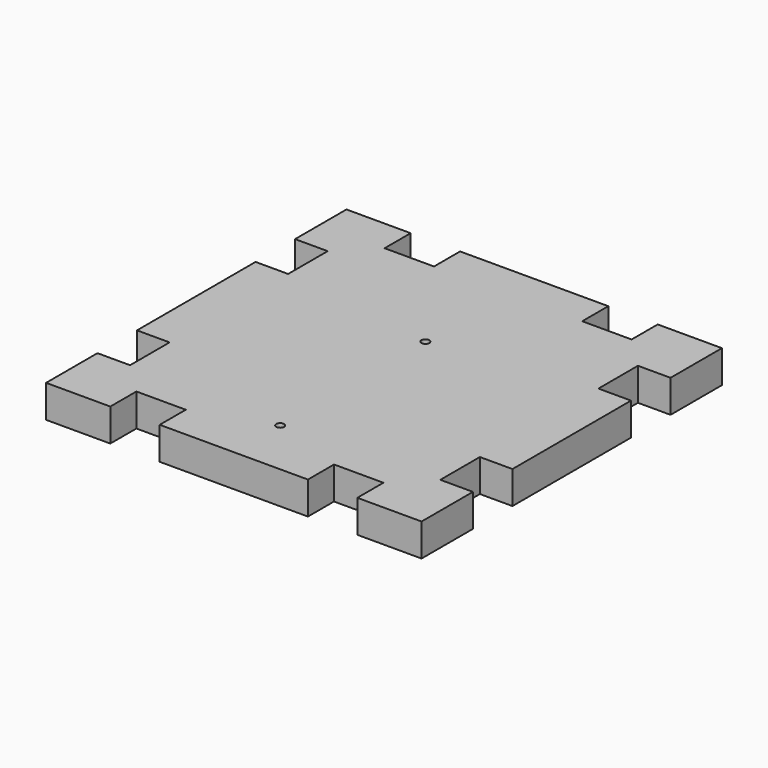
from build123d import *

# Parameters (mm, degrees)
F0_W     = 76
F0_H     = 76
F1_DEPTH = 6.6
F2_W     = 10
F2_H     = 6.6
F2_W_2   = 6.6
F2_H_2   = 10
F3_DEPTH = 6.6
F4_R     = 0.8
F5_DEPTH = 6.6


with BuildPart() as f1:
    # F0 (on Top) → F1 (new body)
    with BuildSketch(Plane.XY):
        Rectangle(F0_W, F0_H)
    extrude(amount=-F1_DEPTH)

    # F2 (on face) → F3 (cut, through all)
    with BuildSketch(Plane.XY):
        with Locations((20, 34.7)):
            Rectangle(F2_W, F2_H)
        with Locations((-20, 34.7)):
            Rectangle(F2_W, F2_H)
        with Locations((-34.7, -20)):
            Rectangle(F2_W_2, F2_H_2)
        with Locations((-34.7, 20)):
            Rectangle(F2_W_2, F2_H_2)
        with Locations((20, -34.7)):
            Rectangle(F2_W, F2_H)
        with Locations((-20, -34.7)):
            Rectangle(F2_W, F2_H)
        with Locations((34.7, 20)):
            Rectangle(F2_W_2, F2_H_2)
        with Locations((34.7, -20)):
            Rectangle(F2_W_2, F2_H_2)
    extrude(amount=-F3_DEPTH, mode=Mode.SUBTRACT)

    # F4 (on face) → F5 (cut, through all)
    with BuildSketch(Plane.XY):
        with Locations((0, 10.475)):
            Circle(F4_R)
        with Locations((0, -26.275)):
            Circle(F4_R)
    extrude(amount=-F5_DEPTH, mode=Mode.SUBTRACT)


solid = f1.part
